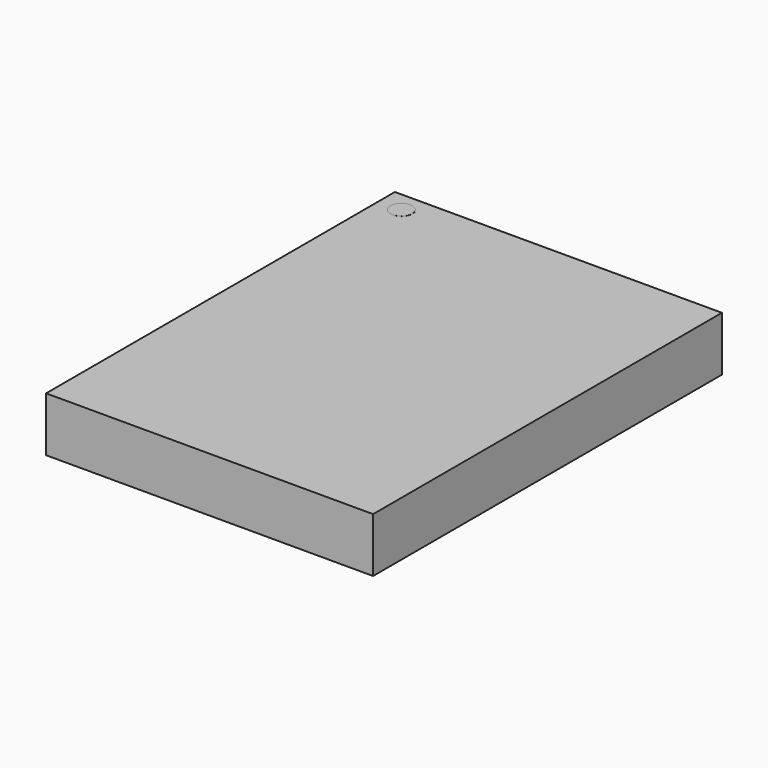
from build123d import *

# Parameters (mm, degrees)
ARRAY_X_COUNT  = 5
ARRAY_X_PITCH  = 1
ARRAY_Y_COUNT  = 6
ARRAY_Y_PITCH  = 1
RECTANGLE_W    = 6
RECTANGLE_H    = 8
EXTRUDE_DEPTH  = 1
CYLINDER_R     = 0.2
CYLINDER_DEPTH = 0.001


with BuildPart() as array:
    # Sphere → Sphere (revolve)
    with BuildSketch(Plane(origin=(0, 0, 0.125), x_dir=(1, 0, 0), z_dir=(0, -1, 0))):
        with BuildLine():
            ThreePointArc((0, -0.225), (0.225, 0), (0, 0.225))
            Line((0, 0.225), (0, -0.225))
        make_face()
    revolve(axis=Axis((0, 0, 0.125), (0, 0, 1)))

    # Array X: Array ×5


with BuildPart() as array_1:
    add(array.part)
    with Locations(*[(i * ARRAY_X_PITCH, 0, 0) for i in range(1, ARRAY_X_COUNT)]):
        add(array.part)

    # Array Y: Array ×6


with BuildPart() as array_2:
    add(array_1.part)
    with Locations(*[(0, -i * ARRAY_Y_PITCH, 0) for i in range(1, ARRAY_Y_COUNT)]):
        add(array_1.part)


with BuildPart() as extrude_body:
    # Rectangle → Extrude (new body)
    with BuildSketch(Plane(origin=(-1, 2, 0.2), x_dir=(1, 0, 0), z_dir=(0, 0, 1))):
        with Locations((3, -4)):
            Rectangle(RECTANGLE_W, RECTANGLE_H)
    extrude(amount=EXTRUDE_DEPTH)


with BuildPart() as a1_marker:
    # Cylinder → Cylinder (new body)
    with BuildSketch(Plane(origin=(-0.581639, 1.62594, 1.2), x_dir=(1, 0, 0), z_dir=(0, 0, 1))):
        Circle(CYLINDER_R)
    extrude(amount=CYLINDER_DEPTH)


solid = Compound([array_2.part, extrude_body.part, a1_marker.part])
